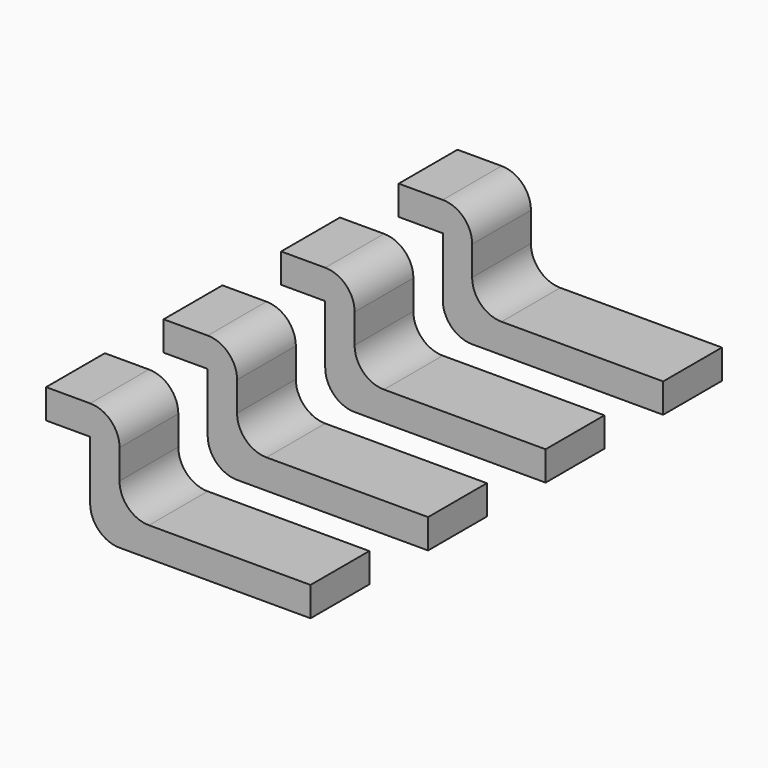
from build123d import *

# Parameters (mm, degrees)
BOX017_W           = 0.2
BOX017_H           = 0.5
BOX017_DEPTH       = 0.4
BOX018_W           = 0.2
BOX018_H           = 0.5
BOX018_DEPTH       = 0.5
BOX018_PITCH_ANGLE = 90
BOX016_W           = 1.5
BOX016_H           = 0.5
BOX016_DEPTH       = 0.2
FILLET_R           = 0.2
ARRAY001_Y_COUNT   = 4
ARRAY001_Y_PITCH   = 1


with BuildPart() as cubo017:
    # Box017 → Box017 (new body)
    with BuildSketch(Plane(origin=(7.1, 10, -0.6), x_dir=(1, 0, 0), z_dir=(0, 0, 1))):
        with Locations((0.1, 0.25)):
            Rectangle(BOX017_W, BOX017_H)
    extrude(amount=BOX017_DEPTH)


with BuildPart() as cubo018:
    # Box018 → Box018 (new body)
    with BuildSketch(Plane.XY):
        with Locations((0.1, 0.25)):
            Rectangle(BOX018_W, BOX018_H)
    extrude(amount=BOX018_DEPTH)


with BuildPart() as cubo018_1:
    # Box018 pitch: moved
    add(cubo018.part.rotate(Axis((0, 0, 0), (0, 1, 0)), BOX018_PITCH_ANGLE))


with BuildPart() as cubo018_2:
    # Box018 placement: moved
    add(cubo018_1.part.moved(Location((6.8, 10, 0))))


with BuildPart() as array001:
    # Box016 → Box016 (new body)
    with BuildSketch(Plane(origin=(7.1, 10, -0.8), x_dir=(1, 0, 0), z_dir=(0, 0, 1))):
        with Locations((0.75, 0.25)):
            Rectangle(BOX016_W, BOX016_H)
    extrude(amount=BOX016_DEPTH)

    # Fusion004: union Cubo017, Cubo018
    add(cubo017.part)
    add(cubo018_2.part)

    # Fillet
    fillet_edges = [array001.edges().sort_by_distance(p)[0] for p in [
        (7.3, 10.25, -0.6),
        (7.1, 10.25, -0.8),
        (7.3, 10.25, 0),
    ]]
    fillet(fillet_edges, radius=FILLET_R)

    # Array001 Y: Array001 ×4


with BuildPart() as array001_1:
    add(array001.part)
    with Locations(*[(0, -i * ARRAY001_Y_PITCH, 0) for i in range(1, ARRAY001_Y_COUNT)]):
        add(array001.part)


solid = array001_1.part
